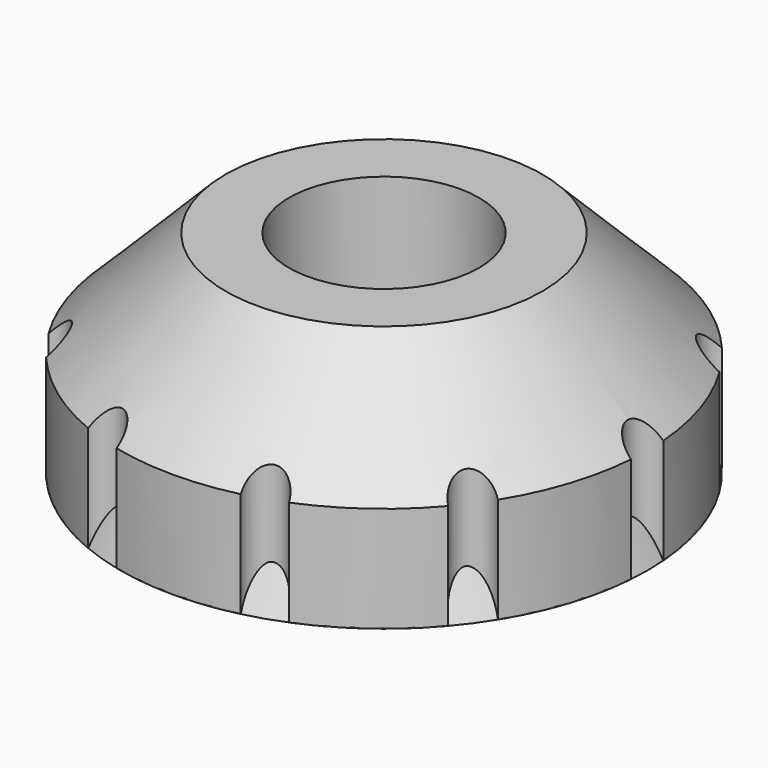
from build123d import *

# Parameters (mm, degrees)
CYLINDER_R         = 1.8
CYLINDER_DEPTH     = 10
CYLINDER002_R      = 1.8
CYLINDER002_DEPTH  = 10
CYLINDER001_R      = 5
CYLINDER001_DEPTH  = 4
CHAMFER_SIZE       = 2
FILLET_R           = 0.4
POCKET_DEPTH       = 33.3948769134
POLARPATTERN_COUNT = 10


with BuildPart() as cilindro:
    # Cylinder → Cylinder (new body)
    with BuildSketch(Plane.XY):
        Circle(CYLINDER_R)
    extrude(amount=CYLINDER_DEPTH)


with BuildPart() as cut:
    # Cone → Cone (revolve)
    with BuildSketch(Plane.XZ):
        Polygon((0, 0), (5, 0), (3, 4), (0, 4), align=None)
    revolve(axis=Axis((0, 0, 0), (0, 0, 1)))

    # Cut: cut Cilindro
    add(cilindro.part, mode=Mode.SUBTRACT)


with BuildPart() as cilindro002:
    # Cylinder002 → Cylinder002 (new body)
    with BuildSketch(Plane.XY):
        Circle(CYLINDER002_R)
    extrude(amount=CYLINDER002_DEPTH)


with BuildPart() as body:
    # Cylinder001 → Cylinder001 (new body)
    with BuildSketch(Plane.XY):
        Circle(CYLINDER001_R)
    extrude(amount=CYLINDER001_DEPTH)

    # Cut001: cut Cilindro002
    add(cilindro002.part, mode=Mode.SUBTRACT)

    # Chamfer
    chamfer_edges = [body.edges().sort_by_distance(p)[0] for p in [
        (-5, 0, 4),
    ]]
    chamfer(chamfer_edges, length=CHAMFER_SIZE)

    # Fillet
    fillet_edges = [body.edges().sort_by_distance(p)[0] for p in [
        (-1.8, 0, 0),
    ]]
    fillet(fillet_edges, radius=FILLET_R)

    # CopySketch002 → Pocket (cut, through all)
    with BuildSketch(Plane(origin=(0, 0, 0), x_dir=(-1, 0, 0), z_dir=(0, 0, -1))):
        with BuildLine():
            ThreePointArc((-4.9851565937, -0.3849853717), (-4.6168735744, -0.0019824857), (-4.9854853807, 0.3807039776))
            ThreePointArc((-4.9854853807, 0.3807039776), (-4.999999539, -0.002147), (-4.9851565937, -0.3849853717))
        make_face()
    pocket = extrude(amount=-POCKET_DEPTH, mode=Mode.SUBTRACT)

    # PolarPattern: Pocket ×10 about axis
    polarpattern_axis = Axis((0, 0, 0), (0, 0, -1))
    for i in range(1, POLARPATTERN_COUNT):
        add(pocket.rotate(polarpattern_axis, i * 360 / POLARPATTERN_COUNT), mode=Mode.SUBTRACT)


solid = Compound([cut.part, body.part])
